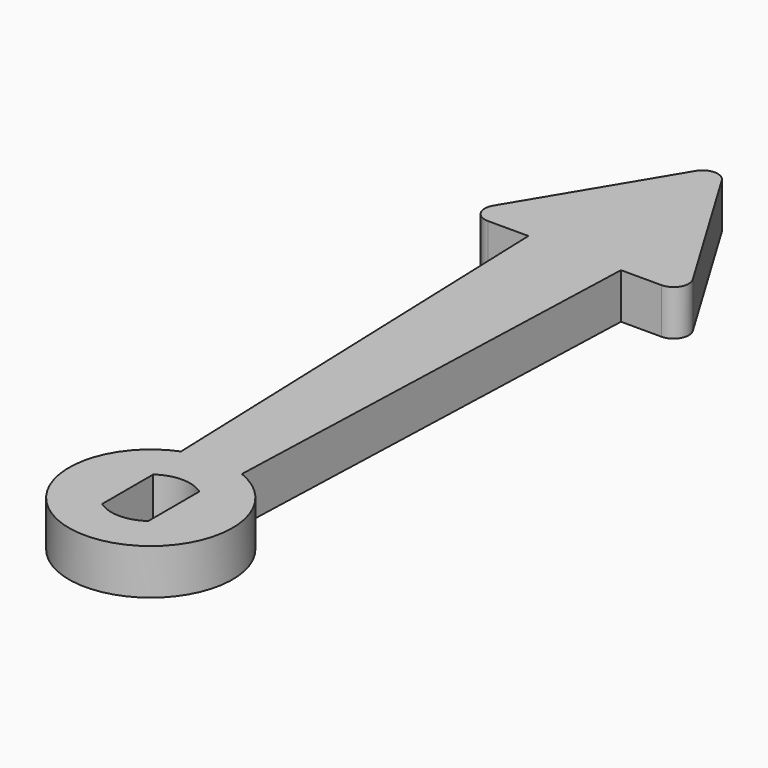
from build123d import *

# Parameters (mm, degrees)
F0_R     = 5.4
F1_DEPTH = 1.5
F3_DEPTH = 1.5
F4_DEPTH = 1.5
F6_DEPTH = 1.5
F7_DEPTH = 1.5
F8_R     = 1


with BuildPart() as f1:
    # F0 (on Top) → F1 (new body, symmetric)
    with BuildSketch(Plane.XY):
        Circle(F0_R)
        with BuildLine():
            ThreePointArc((1.525, 2.1057955741), (2.3157072354, 1.1821590418), (2.6, 0))
            ThreePointArc((2.6, 0), (2.3157072354, -1.1821590418), (1.525, -2.1057955741))
            ThreePointArc((1.525, -2.1057955741), (0, -2.6), (-1.525, -2.1057955741))
            ThreePointArc((-1.525, -2.1057955741), (-2.6, 0), (-1.525, 2.1057955741))
            ThreePointArc((-1.525, 2.1057955741), (0, 2.6), (1.525, 2.1057955741))
        make_face(mode=Mode.SUBTRACT)
        with BuildLine():
            ThreePointArc((1.525, -2.1057955741), (2.3157072354, -1.1821590418), (2.6, 0))
            ThreePointArc((2.6, 0), (2.3157072354, 1.1821590418), (1.525, 2.1057955741))
            Line((1.525, 2.1057955741), (1.525, -2.1057955741))
        make_face()
        with BuildLine():
            Line((-1.525, -2.1057955741), (-1.525, 2.1057955741))
            ThreePointArc((-1.525, 2.1057955741), (-2.6, 0), (-1.525, -2.1057955741))
        make_face()
    extrude(amount=F1_DEPTH, both=True)

    # F2 (on Top) → F3 (join, through all)
    with BuildSketch(Plane.XY):
        Polygon((-2, 4.724830389), (0, 4.724830389), (2, 4.724830389), (3.0572322193, 35), (0, 35), (-3.0572322193, 35), align=None)
    extrude(amount=F3_DEPTH)

    # F4 (add, through all): a face of the model
    f4_faces = [f1.faces().sort_by_distance(p)[0] for p in [
        (0, 21.149058398, 0),
    ]]
    extrude(f4_faces, amount=F4_DEPTH)

    # F5 (on Top) → F6 (join, through all)
    with BuildSketch(Plane.XY):
        Polygon((0, 47.5), (-7.5, 35), (7.5, 35), align=None)
    extrude(amount=F6_DEPTH)

    # F7 (add, through all): a face of the model
    f7_faces = [f1.faces().sort_by_distance(p)[0] for p in [
        (0, 39.1666666667, 0),
    ]]
    extrude(f7_faces, amount=F7_DEPTH)

    # F8
    f8_edges = [f1.edges().sort_by_distance(p)[0] for p in [
        (0, 47.5, 0),
        (-7.5, 35, 0),
        (7.5, 35, 0),
    ]]
    fillet(f8_edges, radius=F8_R)


solid = f1.part
